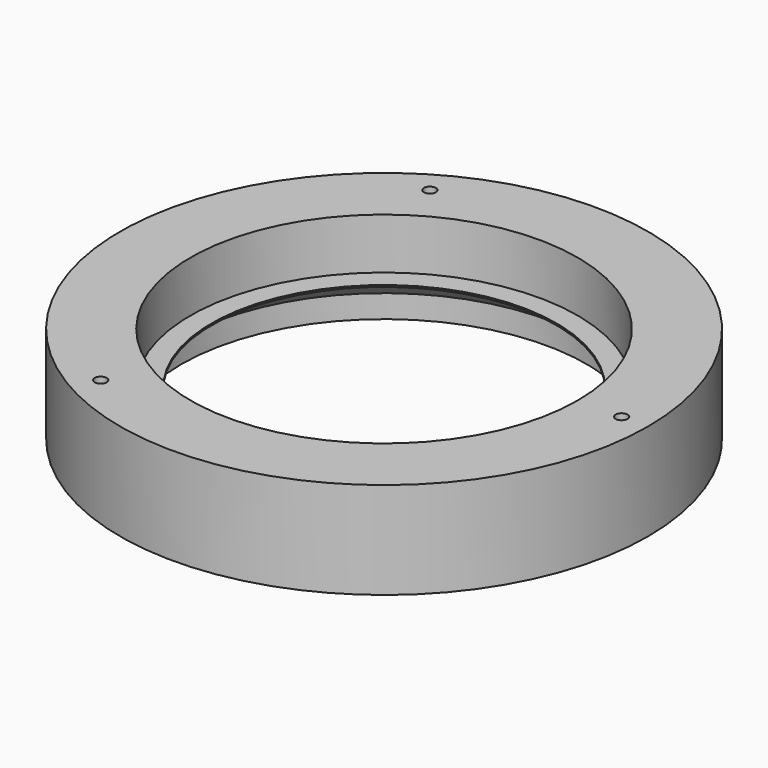
from build123d import *

# Parameters (mm, degrees)
SKETCH001_R        = 1.7
POCKET_DEPTH       = 455.315212
POLARPATTERN_COUNT = 3


with BuildPart() as part:
    # Sketch → Revolution (revolve)
    with BuildSketch(Plane.XZ):
        Polygon((55, 13), (55, 27.5), (75, 27.5), (75, 0), (57.568888, 0), (57.568888, 6.5), (49, 12.5), (49, 13), align=None)
    revolve(axis=Axis((0, 0, 0), (0, 0, 1)))

    # Sketch001 (on Face2 of Revolution) → Pocket (cut, through all)
    with BuildSketch(Plane(origin=(0, 0, 27.5), x_dir=(-1, 0, 0), z_dir=(0, 0, 1))):
        with Locations((-67.5, 0)):
            Circle(SKETCH001_R)
    pocket = extrude(amount=-POCKET_DEPTH, mode=Mode.SUBTRACT)

    # PolarPattern: Pocket ×3 about axis
    polarpattern_axis = Axis((0, 0, 27.5), (0, 0, 1))
    for i in range(1, POLARPATTERN_COUNT):
        add(pocket.rotate(polarpattern_axis, i * 360 / POLARPATTERN_COUNT), mode=Mode.SUBTRACT)


solid = part.part
